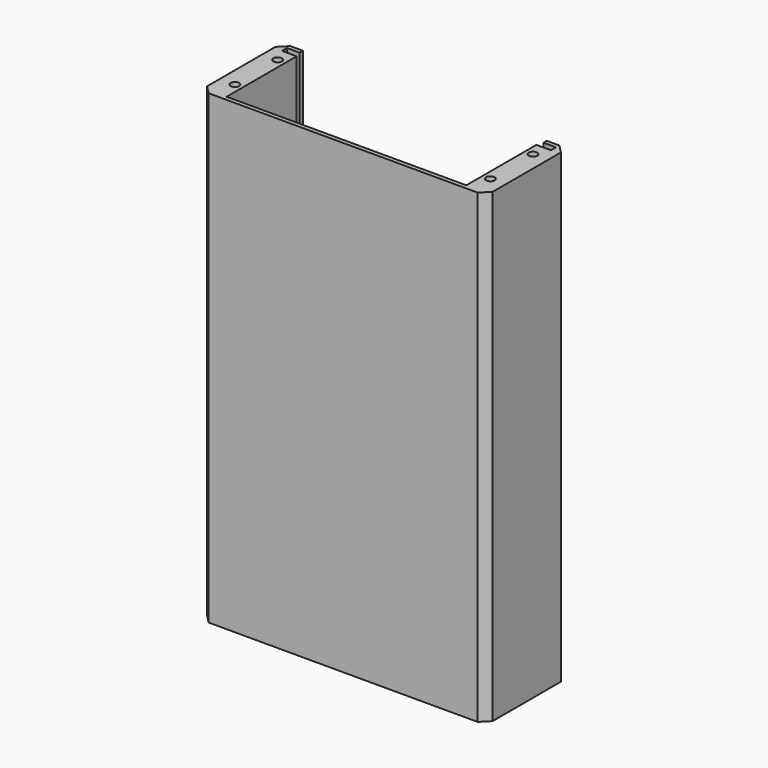
from build123d import *

# Parameters (mm, degrees)
SKETCH_R     = 2.05
PAD_DEPTH    = 223.52
CHAMFER_SIZE = 4


with BuildPart() as part:
    # Sketch → Pad (new body)
    with BuildSketch(Plane.XY):
        Polygon((0, 0), (137, 0), (137, 49), (127, 49), (127, 47), (133, 47), (133, 44), (126, 44), (126, 2), (11, 2), (11, 44), (4, 44), (4, 47), (10, 47), (10, 49), (0, 49), align=None)
        with Locations((7.25, 11.7)):
            Circle(SKETCH_R, mode=Mode.SUBTRACT)
        with Locations((129.75, 11.7)):
            Circle(SKETCH_R, mode=Mode.SUBTRACT)
        with Locations((7.25, 37.3)):
            Circle(SKETCH_R, mode=Mode.SUBTRACT)
        with Locations((129.75, 37.3)):
            Circle(SKETCH_R, mode=Mode.SUBTRACT)
    extrude(amount=PAD_DEPTH)

    # Chamfer
    chamfer_edges = [part.edges().sort_by_distance(p)[0] for p in [
        (0, 49, 111.76),
        (137, 49, 111.76),
        (137, 0, 111.76),
        (0, 0, 111.76),
    ]]
    chamfer(chamfer_edges, length=CHAMFER_SIZE)


solid = part.part
